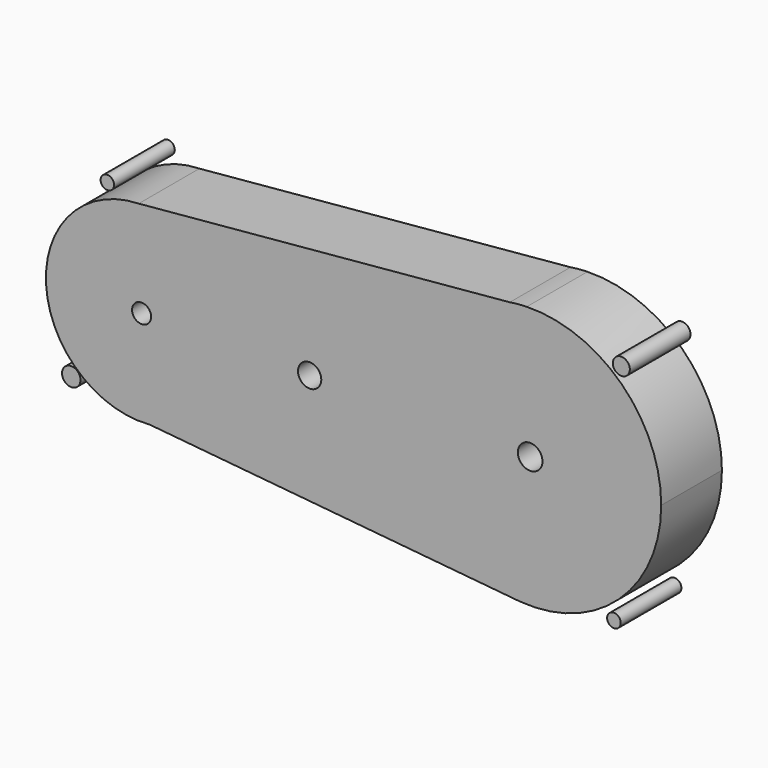
from build123d import *

# Parameters (mm, degrees)
F0_R     = 3.186937
F0_R_2   = 3.898095
F0_R_3   = 4.119968
F0_R_4   = 2.248227
F0_R_5   = 3.094503
F0_R_6   = 2.276156
F0_R_7   = 2.843797
F1_DEPTH = 25.4


with BuildPart() as f1:
    # F0 (on Front) → F1 (new body)
    with BuildSketch(Plane.XZ):
        with BuildLine():
            ThreePointArc((-53.561725, -31.917066), (-32.67015, -21.67734), (-24.220131, 0))
            ThreePointArc((-24.220131, 0), (-33.947213, 22.989185), (-57.220506, 32.015399))
            ThreePointArc((-57.220506, 32.015399), (-88.228005, -1.830051), (-53.561725, -31.917066))
        make_face()
        with Locations((-56.250229, 0)):
            Circle(F0_R, mode=Mode.SUBTRACT)
        with BuildLine():
            ThreePointArc((-57.220506, 32.015399), (-33.947213, 22.989185), (-24.220131, 0))
            ThreePointArc((-24.220131, 0), (-32.67015, -21.67734), (-53.561725, -31.917066))
            Line((-53.561725, -31.917066), (69.084662, -43.616494))
            ThreePointArc((69.084662, -43.616494), (29.952002, -1.049886), (67.003125, 43.340379))
            Line((67.003125, 43.340379), (-57.220506, 32.015399))
        make_face()
        Circle(F0_R_2, mode=Mode.SUBTRACT)
        with BuildLine():
            Line((72.670017, 43.857008), (67.003125, 43.340379))
            ThreePointArc((67.003125, 43.340379), (29.952002, -1.049886), (69.084662, -43.616494))
            Line((69.084662, -43.616494), (70.206426, -43.723501))
            ThreePointArc((70.206426, -43.723501), (103.53155, -32.271441), (117.683147, 0))
            ThreePointArc((117.683147, 0), (104.427218, 31.422997), (72.670017, 43.857008))
        make_face()
        with Locations((73.811293, 0)):
            Circle(F0_R_3, mode=Mode.SUBTRACT)
        with BuildLine():
            ThreePointArc((72.670017, 43.857008), (69.828186, 43.690668), (67.003125, 43.340379))
            Line((67.003125, 43.340379), (72.670017, 43.857008))
        make_face()
        with BuildLine():
            Line((70.206426, -43.723501), (69.084662, -43.616494))
            ThreePointArc((69.084662, -43.616494), (69.645201, -43.6736), (70.206426, -43.723501))
        make_face()
        with Locations((-67.718104, 34.836605)):
            Circle(F0_R_4)
        with Locations((-79.804271, -26.305199)):
            Circle(F0_R_5)
        with Locations((101.843759, -39.10232)):
            Circle(F0_R_6)
        with Locations((104.332089, 36.613986)):
            Circle(F0_R_7)
    extrude(amount=F1_DEPTH)


solid = f1.part
